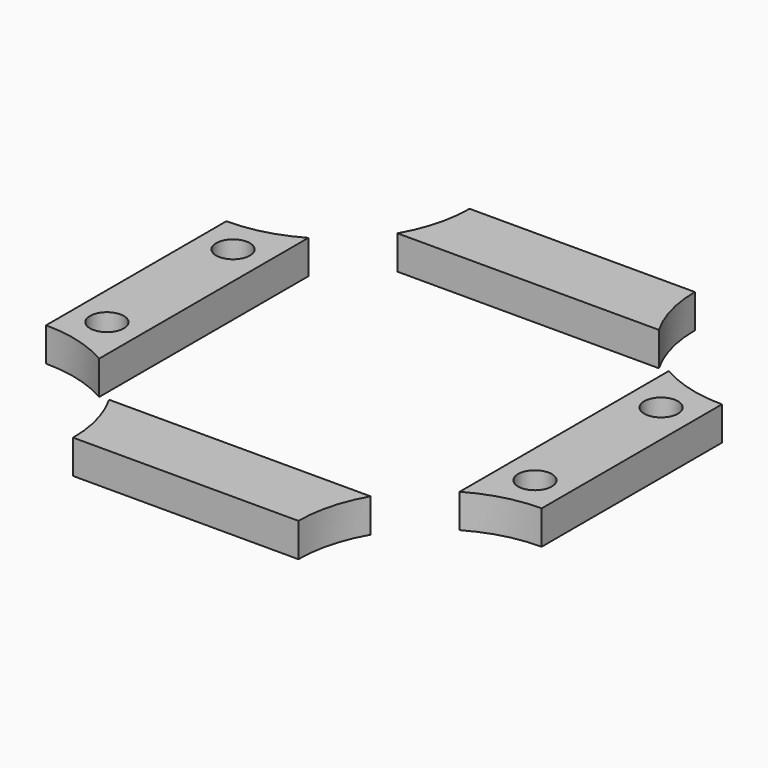
from build123d import *

# Parameters (mm, degrees)
CYLINDER1868_R     = 1.5
CYLINDER1868_DEPTH = 30
CYLINDER1869_R     = 1.5
CYLINDER1869_DEPTH = 30
CYLINDER1870_R     = 1.5
CYLINDER1870_DEPTH = 30
CYLINDER1867_R     = 1.5
CYLINDER1867_DEPTH = 30
CYLINDER1879_R     = 12
CYLINDER1879_DEPTH = 50
CYLINDER1881_R     = 12
CYLINDER1881_DEPTH = 50
CYLINDER1880_R     = 12
CYLINDER1880_DEPTH = 50
CYLINDER1876_R     = 12
CYLINDER1876_DEPTH = 50
BOX731_W           = 32
BOX731_H           = 32
BOX731_DEPTH       = 20
BOX732_W           = 44
BOX732_H           = 44
BOX732_DEPTH       = 3


with BuildPart() as obj1:
    # Cylinder1868 → Cylinder1868 (new body)
    with BuildSketch(Plane(origin=(19, -7, -136), x_dir=(1, 0, 0), z_dir=(0, 0, 1))):
        Circle(CYLINDER1868_R)
    extrude(amount=CYLINDER1868_DEPTH)


with BuildPart() as obj2:
    # Cylinder1869 → Cylinder1869 (new body)
    with BuildSketch(Plane(origin=(-19, 7, -136), x_dir=(1, 0, 0), z_dir=(0, 0, 1))):
        Circle(CYLINDER1869_R)
    extrude(amount=CYLINDER1869_DEPTH)


with BuildPart() as obj3:
    # Cylinder1870 → Cylinder1870 (new body)
    with BuildSketch(Plane(origin=(-19, -7, -136), x_dir=(1, 0, 0), z_dir=(0, 0, 1))):
        Circle(CYLINDER1870_R)
    extrude(amount=CYLINDER1870_DEPTH)


with BuildPart() as compound843:
    # Cylinder1867 → Cylinder1867 (new body)
    with BuildSketch(Plane(origin=(19, 7, -136), x_dir=(1, 0, 0), z_dir=(0, 0, 1))):
        Circle(CYLINDER1867_R)
    extrude(amount=CYLINDER1867_DEPTH)

    # Compound843: union obj1, obj2, obj3
    add(obj1.part)
    add(obj2.part)
    add(obj3.part)


with BuildPart() as compound843_1:
    # Compound843 placement: moved
    add(compound843.part.moved(Location((0, 0, 1))))


with BuildPart() as obj4:
    # Cylinder1879 → Cylinder1879 (new body)
    with BuildSketch(Plane(origin=(22, -22, -126), x_dir=(1, 0, 0), z_dir=(0, 0, 1))):
        Circle(CYLINDER1879_R)
    extrude(amount=CYLINDER1879_DEPTH)


with BuildPart() as obj5:
    # Cylinder1881 → Cylinder1881 (new body)
    with BuildSketch(Plane(origin=(-22, 22, -126), x_dir=(1, 0, 0), z_dir=(0, 0, 1))):
        Circle(CYLINDER1881_R)
    extrude(amount=CYLINDER1881_DEPTH)


with BuildPart() as obj6:
    # Cylinder1880 → Cylinder1880 (new body)
    with BuildSketch(Plane(origin=(22, 22, -126), x_dir=(1, 0, 0), z_dir=(0, 0, 1))):
        Circle(CYLINDER1880_R)
    extrude(amount=CYLINDER1880_DEPTH)


with BuildPart() as compound838:
    # Cylinder1876 → Cylinder1876 (new body)
    with BuildSketch(Plane(origin=(-22, -22, -126), x_dir=(1, 0, 0), z_dir=(0, 0, 1))):
        Circle(CYLINDER1876_R)
    extrude(amount=CYLINDER1876_DEPTH)

    # Compound838: union obj4, obj5, obj6
    add(obj4.part)
    add(obj5.part)
    add(obj6.part)


with BuildPart() as krychle730:
    # Box731 → Box731 (new body)
    with BuildSketch(Plane(origin=(-16, -16, -126), x_dir=(1, 0, 0), z_dir=(0, 0, 1))):
        with Locations((16, 16)):
            Rectangle(BOX731_W, BOX731_H)
    extrude(amount=BOX731_DEPTH)


with BuildPart() as cut674:
    # Box732 → Box732 (new body)
    with BuildSketch(Plane(origin=(-22, -22, -120), x_dir=(1, 0, 0), z_dir=(0, 0, 1))):
        with Locations((22, 22)):
            Rectangle(BOX732_W, BOX732_H)
    extrude(amount=BOX732_DEPTH)

    # Cut688: cut Krychle730
    add(krychle730.part, mode=Mode.SUBTRACT)

    # Cut670: cut Compound838
    add(compound838.part, mode=Mode.SUBTRACT)


with BuildPart() as cut674_1:
    # Cut670 placement: moved
    add(cut674.part.moved(Location((0, 0, -7))))

    # Cut674: cut Compound843
    add(compound843_1.part, mode=Mode.SUBTRACT)


solid = cut674_1.part
